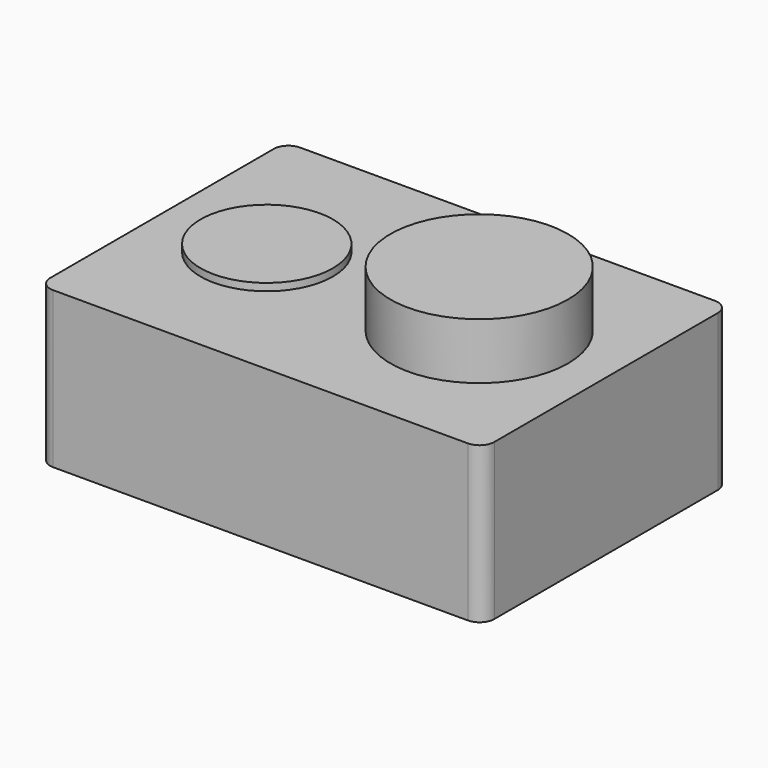
from build123d import *

# Parameters (mm, degrees)
F1_DEPTH = 21.2
F2_R     = 9
F3_DEPTH = 1
F4_R     = 12.075
F5_DEPTH = 7.65


with BuildPart() as f1:
    # F0 (on Top) → F1 (new body)
    with BuildSketch(Plane.XY):
        with BuildLine():
            ThreePointArc((-30.2, -19), (-29.6142135624, -20.4142135624), (-28.2, -21))
            Line((-28.2, -21), (28.2, -21))
            ThreePointArc((28.2, -21), (29.6142135624, -20.4142135624), (30.2, -19))
            Line((30.2, -19), (30.2, 19))
            ThreePointArc((30.2, 19), (29.6142135624, 20.4142135624), (28.2, 21))
            Line((28.2, 21), (-28.2, 21))
            ThreePointArc((-28.2, 21), (-29.6142135624, 20.4142135624), (-30.2, 19))
            Line((-30.2, 19), (-30.2, -19))
        make_face()
    extrude(amount=F1_DEPTH)

    # F2 (on face) → F3 (join)
    with BuildSketch(Plane.XY.offset(21.2)):
        with Locations((-15.95, 0)):
            Circle(F2_R)
    extrude(amount=F3_DEPTH)

    # F4 (on face) → F5 (join)
    with BuildSketch(Plane.XY.offset(21.2)):
        with Locations((12.95, 0)):
            Circle(F4_R)
    extrude(amount=F5_DEPTH)


solid = f1.part
